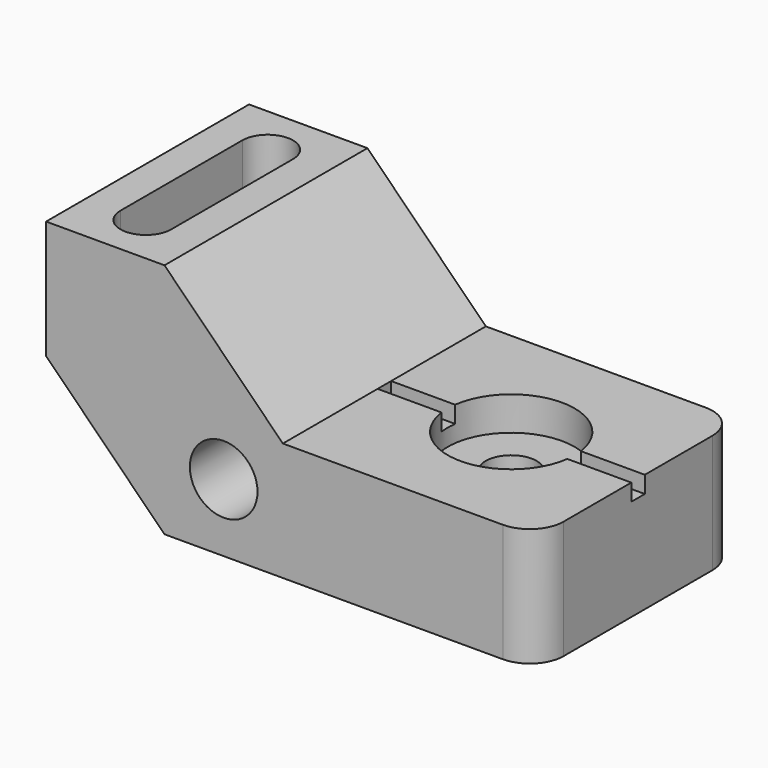
from build123d import *

# Parameters (mm, degrees)
F1_DEPTH       = 76.2
F2_R           = 10.16
F3_DEPTH       = 76.201
F5_DEPTH       = 27.94
F7_D           = 15.24
F7_CBORE_D     = 38.1
F7_CBORE_DEPTH = 10.16
F9_DEPTH       = 76.2
F10_R          = 10.16


with BuildPart() as f1:
    # F0 (on Front) → F1 (new body)
    with BuildSketch(Plane.XZ):
        Polygon((0, 71.12), (0, 35.56), (35.56, 0), (147.32, 0), (147.32, 35.56), (71.12, 35.56), (35.56, 71.12), align=None)
    extrude(amount=F1_DEPTH)

    # F2 (on face) → F3 (cut, through all)
    with BuildSketch(Plane.XZ.offset(76.2)):
        with Locations((53.34, 20.32)):
            Circle(F2_R)
    extrude(amount=-F3_DEPTH, mode=Mode.SUBTRACT)

    # F4 (on face) → F5 (cut)
    with BuildSketch(Plane.XY.offset(71.12)):
        with BuildLine():
            ThreePointArc((25.4, -15.24), (17.78, -7.62), (10.16, -15.24))
            Line((10.16, -15.24), (10.16, -60.96))
            ThreePointArc((10.16, -60.96), (17.78, -68.58), (25.4, -60.96))
            Line((25.4, -60.96), (25.4, -15.24))
        make_face()
    extrude(amount=-F5_DEPTH, mode=Mode.SUBTRACT)

    # F7 (through all)
    with Locations(Plane.XY.offset(35.56)):
        with Locations((109.22, -38.1)):
            CounterBoreHole(F7_D / 2, F7_CBORE_D / 2, F7_CBORE_DEPTH)

    # F8 (on face) → F9 (cut)
    with BuildSketch(Plane.YZ.offset(147.32)):
        Polygon((-35.56, 35.56), (-38.1, 35.56), (-40.64, 35.56), (-40.64, 30.48), (-35.56, 30.48), align=None)
    extrude(amount=-F9_DEPTH, mode=Mode.SUBTRACT)

    # F10
    f10_edges = [f1.edges().sort_by_distance(p)[0] for p in [
        (147.32, 0, 17.78),
        (147.32, -76.2, 17.78),
    ]]
    fillet(f10_edges, radius=F10_R)


solid = f1.part
